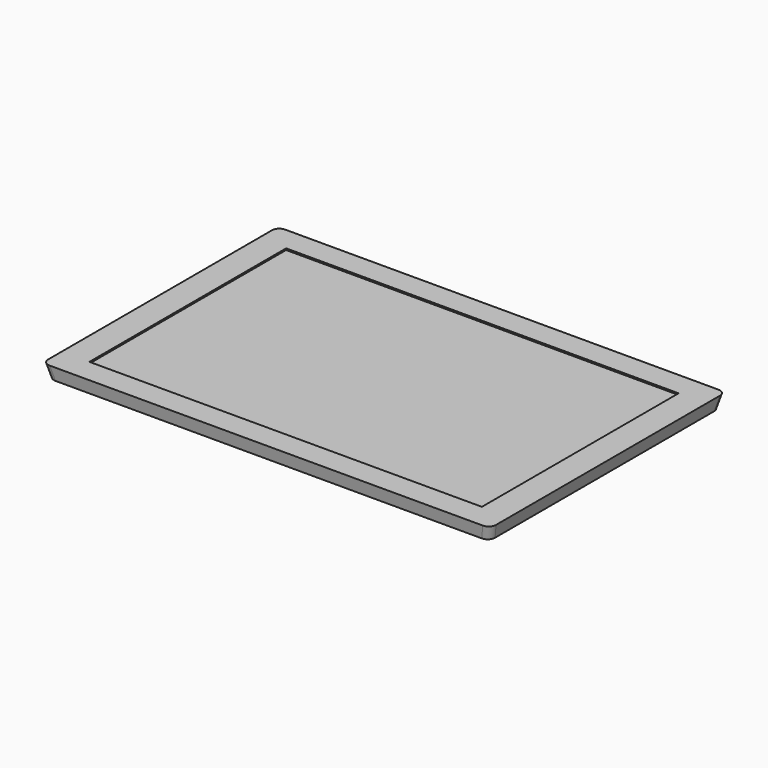
from build123d import *

# Parameters (mm, degrees)
F0_W     = 258.6008906364
F0_H     = 162.0002239943
F1_DEPTH = 9
F3_DEPTH = 330.2
F5_DEPTH = 190.5
F6_R     = 5
F7_START = 8
F7_DEPTH = 2


with BuildPart() as f1:
    # F0 (on Top) → F1 (new body)
    with BuildSketch(Plane.XY):
        Polygon((-141, -97.0001119971), (141, -97.0001119971), (147.5504453182, -97.0001119971), (147.5504453182, -92.0001119971), (147.5504453182, 97.0001119971), (141, 97.0001119971), (-141, 97.0001119971), (-147.5504453182, 97.0001119971), (-147.5504453182, -92.0001119971), (-147.5504453182, -97.0001119971), align=None)
        Polygon((145.3004453182, -95.0001119971), (138.75, -95.0001119971), (-138.75, -95.0001119971), (-145.3004453182, -95.0001119971), (-145.3004453182, -90.0001119971), (-145.3004453182, 95.0001119971), (-138.75, 95.0001119971), (138.75, 95.0001119971), (145.3004453182, 95.0001119971), (145.3004453182, -90.0001119971), align=None, mode=Mode.SUBTRACT)
        Polygon((-138.75, -95.0001119971), (138.75, -95.0001119971), (145.3004453182, -95.0001119971), (145.3004453182, -90.0001119971), (145.3004453182, 95.0001119971), (138.75, 95.0001119971), (-138.75, 95.0001119971), (-145.3004453182, 95.0001119971), (-145.3004453182, -90.0001119971), (-145.3004453182, -95.0001119971), align=None)
        Rectangle(F0_W, F0_H, mode=Mode.SUBTRACT)
        Rectangle(F0_W, F0_H)
    extrude(amount=F1_DEPTH)

    # F2 (on face) → F3 (cut)
    with BuildSketch(Plane.YZ.offset(147.5504453182)):
        Polygon((97.0001119971, 9), (95.0001119971, 0), (97.0001119971, 0), align=None)
        Polygon((-97.0001119971, 0), (-95.0001119971, 0), (-97.0001119971, 9), align=None)
    extrude(amount=-F3_DEPTH, mode=Mode.SUBTRACT)

    # F4 (on Front) → F5 (cut, symmetric)
    with BuildSketch(Plane.XZ):
        Polygon((-147.5504453182, 0), (-145.3004453182, 0), (-147.5504453182, 9), align=None)
        Polygon((147.5504453182, 9), (145.3004453182, 0), (147.5504453182, 0), align=None)
    extrude(amount=F5_DEPTH, both=True, mode=Mode.SUBTRACT)

    # F6
    f6_edges = [f1.edges().sort_by_distance(p)[0] for p in [
        (146.425445, -96.000112, 4.5),
        (-146.425445, -96.000112, 4.5),
        (146.425445, 96.000112, 4.5),
        (-146.425445, 96.000112, 4.5),
    ]]
    fillet(f6_edges, radius=F6_R)

    # F0 (on Top) → F7 (cut)
    with BuildSketch(Plane.XY.offset(F7_START)):
        Rectangle(F0_W, F0_H)
    extrude(amount=F7_DEPTH, mode=Mode.SUBTRACT)


solid = f1.part
